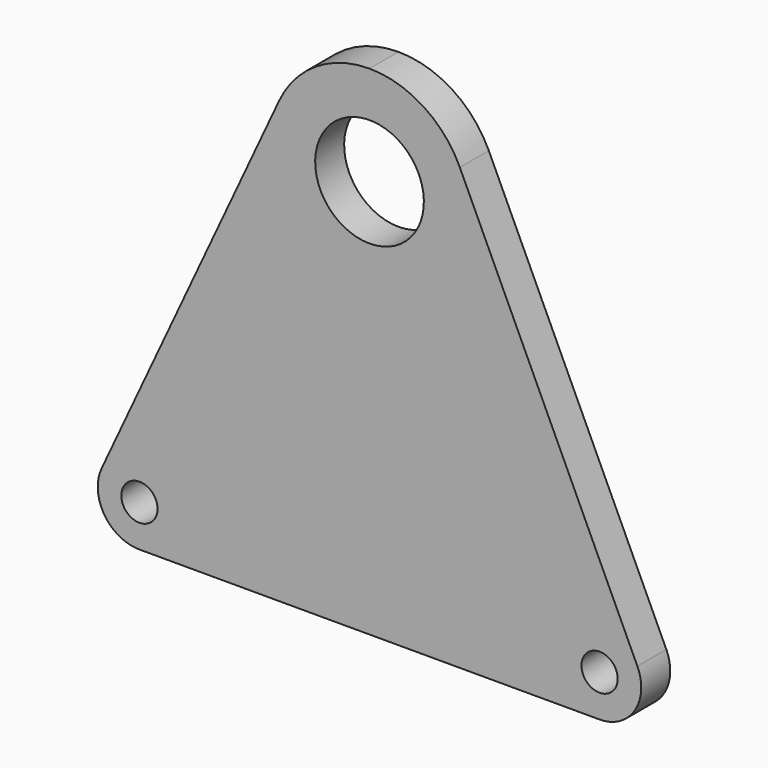
from build123d import *

# Parameters (mm, degrees)
F0_R     = 1
F1_DEPTH = 2


with BuildPart() as f1:
    # F0 (on Front) → F1 (new body)
    with BuildSketch(Plane.XZ):
        with BuildLine():
            Line((14.785155, 3.270633), (4.98624, 24.321079))
            ThreePointArc((4.98624, 24.321079), (2.956693, 26.637668), (0, 27.5))
            ThreePointArc((0, 27.5), (-2.956693, 26.637668), (-4.98624, 24.321079))
            Line((-4.98624, 24.321079), (-14.785155, 3.270633))
            ThreePointArc((-14.785155, 3.270633), (-14.639389, 1.063565), (-12.7, 0))
            Line((-12.7, 0), (0, 0))
            Line((0, 0), (12.7, 0))
            ThreePointArc((12.7, 0), (14.639389, 1.063565), (14.785155, 3.270633))
        make_face()
        with Locations((-12.7, 2.3)):
            Circle(F0_R, mode=Mode.SUBTRACT)
        with Locations((12.7, 2.3)):
            Circle(F0_R, mode=Mode.SUBTRACT)
        with BuildLine():
            ThreePointArc((0, 25), (3, 22), (0, 19))
            ThreePointArc((0, 19), (-3, 22), (0, 25))
        make_face(mode=Mode.SUBTRACT)
    extrude(amount=F1_DEPTH)


solid = f1.part
